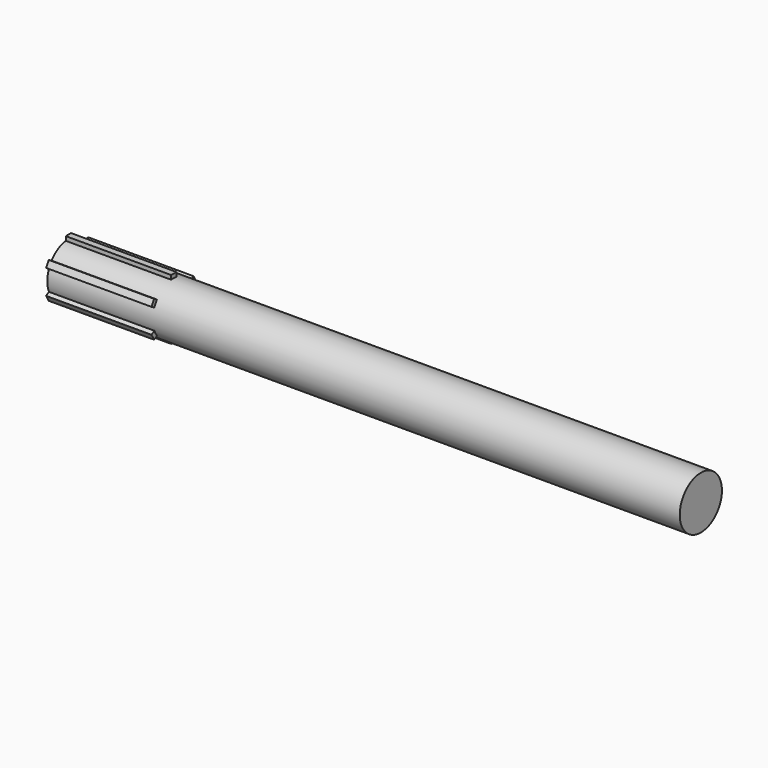
from build123d import *

# Parameters (mm, degrees)
F0_W     = 152.4
F0_H     = 6.35
F2_W     = 1.5875
F2_H     = 14.605
F3_DEPTH = 25.4
F4_COUNT = 6


with BuildPart() as f1:
    # F0 (on Top) → F1 (revolve)
    with BuildSketch(Plane.XY):
        with Locations((76.2, 3.175)):
            Rectangle(F0_W, F0_H)
    revolve(axis=Axis((76.2, 0, 0), (1, 0, 0)))

    # F2 (on face) → F3 (join)
    with BuildSketch(Plane(origin=(0, 0, 0), x_dir=(0, -1, 0), z_dir=(-1, 0, 0))):
        Rectangle(F2_W, F2_H)
    extrude(amount=-F3_DEPTH)

    # F4: F1 ×6 about axis
    f4_axis = Axis((152.4, 0, 0), (-1, 0, 0))


with BuildPart() as f1_1:
    add(f1.part)
    for i in range(1, F4_COUNT):
        add(f1.part.rotate(f4_axis, i * 360 / F4_COUNT))


solid = f1_1.part
